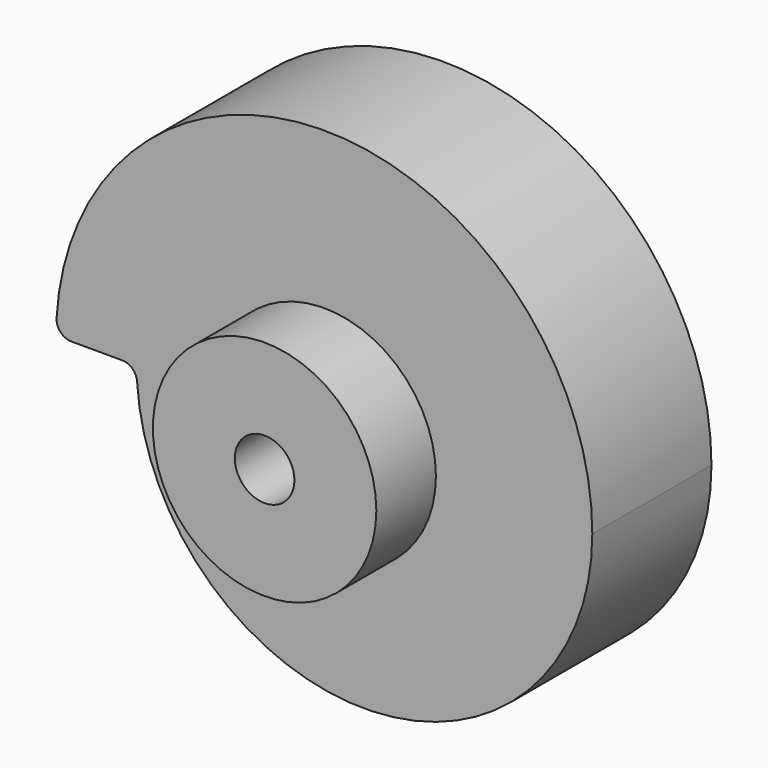
from build123d import *

# Parameters (mm, degrees)
F1_DEPTH = 25.4
F2_R     = 5.08
F3_DEPTH = 127
F4_R     = 2.54
F5_R     = 2.54
F6_R     = 19.05
F6_R_2   = 5.08
F7_DEPTH = 12.7


with BuildPart() as f1:
    # F0 (on Front) → F1 (new body)
    with BuildSketch(Plane.XZ):
        with BuildLine():
            ThreePointArc((-31.9786, 0), (6.8707, -38.8493), (45.72, 0))
            ThreePointArc((45.72, 0), (0, 45.72), (-45.72, 0))
            Line((-45.72, 0), (-31.9786, 0))
        make_face()
    extrude(amount=F1_DEPTH)

    # F2 (on face) → F3 (cut, symmetric)
    with BuildSketch(Plane.XZ.offset(25.4)):
        Circle(F2_R)
    extrude(amount=F3_DEPTH, both=True, mode=Mode.SUBTRACT)

    # F4
    f4_edges = [f1.edges().sort_by_distance(p)[0] for p in [
        (-45.72, -12.7, 0),
    ]]
    fillet(f4_edges, radius=F4_R)

    # F5
    f5_edges = [f1.edges().sort_by_distance(p)[0] for p in [
        (-31.9786, -12.7, 0),
    ]]
    fillet(f5_edges, radius=F5_R)

    # F6 (on face) → F7 (join)
    with BuildSketch(Plane.XZ.offset(25.4)):
        Circle(F6_R)
        Circle(F6_R_2, mode=Mode.SUBTRACT)
    extrude(amount=F7_DEPTH)


solid = f1.part
